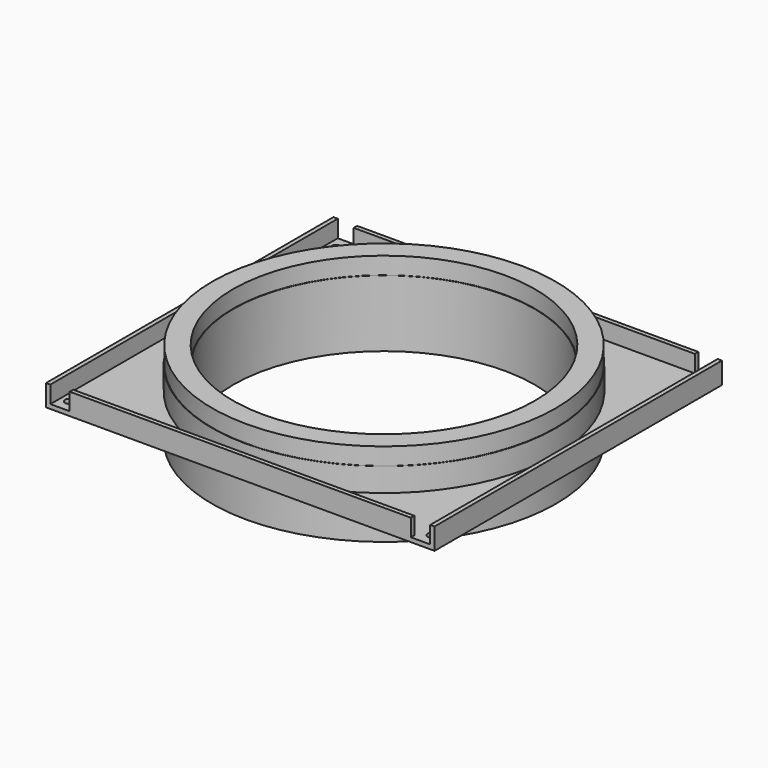
from build123d import *

# Parameters (mm, degrees)
F2_W     = 903
F2_H     = 835
F2_R     = 10
F2_R_2   = 400
F3_DEPTH = 10
F4_W     = 793
F4_H     = 10
F4_W_2   = 10
F4_H_2   = 835
F5_DEPTH = 50


with BuildPart() as f1:
    # F0 (on Front) → F1 (revolve)
    with BuildSketch(Plane.XZ):
        Polygon((-351, -100), (-350, -100), (-350, 55), (-351, 55), (-351, 95), (-399, 95), (-399, 55), (-400, 55), (-400, -100), (-399, -100), (-399, -60), (-351, -60), align=None)
    revolve(axis=Axis((0, 0, -77.049306), (0, 0, -1)))

    # F2 (on Top) → F3 (join)
    with BuildSketch(Plane.XY):
        Rectangle(F2_W, F2_H)
        with Locations((-421.5, -387.5)):
            Circle(F2_R, mode=Mode.SUBTRACT)
        with Locations((421.5, -387.5)):
            Circle(F2_R, mode=Mode.SUBTRACT)
        with Locations((-421.5, 387.5)):
            Circle(F2_R, mode=Mode.SUBTRACT)
        Circle(F2_R_2, mode=Mode.SUBTRACT)
        with Locations((421.5, 387.5)):
            Circle(F2_R, mode=Mode.SUBTRACT)
    extrude(amount=-F3_DEPTH)

    # F4 (on face) → F5 (join)
    with BuildSketch(Plane(origin=(0, 0, -10), x_dir=(1, 0, 0), z_dir=(0, 0, -1))):
        with Locations((0, 412.5)):
            Rectangle(F4_W, F4_H)
        with Locations((-446.5, 0)):
            Rectangle(F4_W_2, F4_H_2)
        with Locations((0, -412.5)):
            Rectangle(F4_W, F4_H)
        with Locations((446.5, 0)):
            Rectangle(F4_W_2, F4_H_2)
    extrude(amount=-F5_DEPTH)


solid = f1.part
